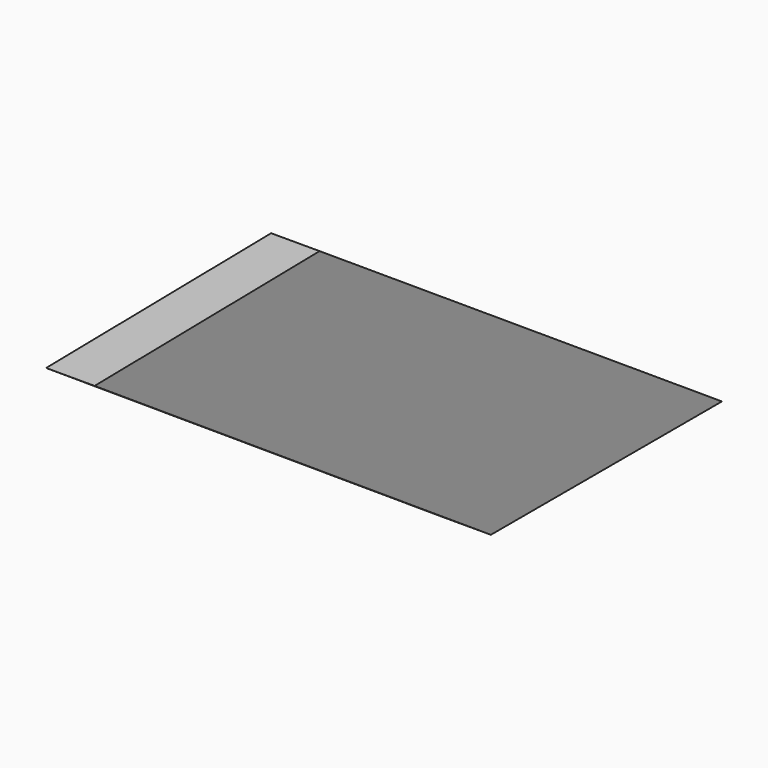
from build123d import *

# Parameters (mm, degrees)
F1_DEPTH = 25.4


with BuildPart() as f1:
    # F0 (on Right) → F1 (new body)
    with BuildSketch(Plane.YZ):
        Polygon((55.898346, -87.941997), (0, 0), (-203.43332, 86.109266), align=None)
        Polygon((-56.163206, 88.358687), (0, 0), (207.098797, -87.941997), align=None)
        Polygon((207.098797, -87.941997), (0, 0), (55.898346, -87.941997), align=None)
        Polygon((-203.43332, 86.109266), (0, 0), (-56.163206, 88.358687), align=None)
    extrude(amount=F1_DEPTH)


solid = f1.part
